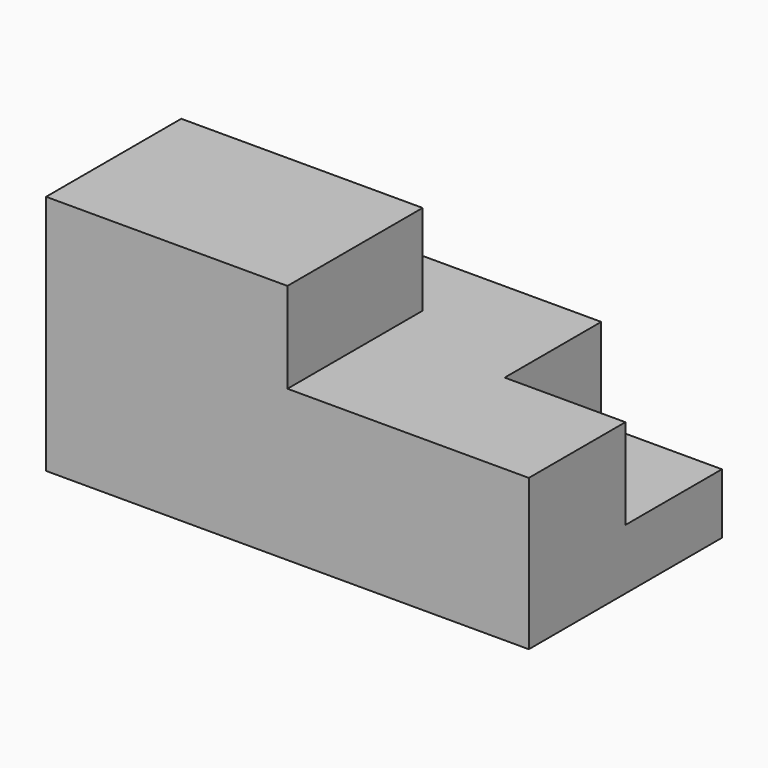
from build123d import *

# Parameters (mm, degrees)
F0_W     = 80
F0_H     = 25
F1_DEPTH = 40
F2_W     = 20
F2_H     = 15
F3_DEPTH = 20
F4_W     = 40
F4_H     = 28
F5_DEPTH = 15


with BuildPart() as f1:
    # F0 (on Front) → F1 (new body)
    with BuildSketch(Plane.XZ):
        with Locations((40, 12.5)):
            Rectangle(F0_W, F0_H)
    extrude(amount=F1_DEPTH)

    # F2 (on face) → F3 (cut)
    with BuildSketch(Plane.YZ.offset(80)):
        with Locations((-10, 17.5)):
            Rectangle(F2_W, F2_H)
    extrude(amount=-F3_DEPTH, mode=Mode.SUBTRACT)

    # F4 (on face) → F5 (join)
    with BuildSketch(Plane.XY.offset(25)):
        with Locations((20, -26)):
            Rectangle(F4_W, F4_H)
    extrude(amount=F5_DEPTH)


solid = f1.part
